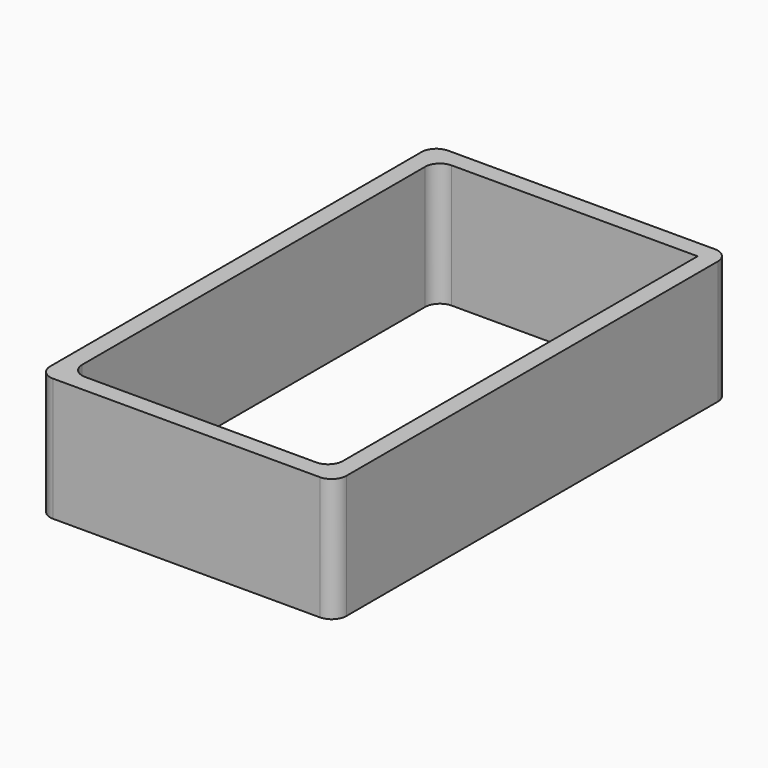
from build123d import *

# Parameters (mm, degrees)
F1_DEPTH = 25


with BuildPart() as f1:
    # F0 (on Top) → F1 (new body)
    with BuildSketch(Plane.XY):
        with BuildLine():
            Line((56.4, 26.051076), (56.4, 120.051076))
            ThreePointArc((56.4, 120.051076), (55.52132, 122.172396), (53.4, 123.051076))
            Line((53.4, 123.051076), (-0.6, 123.051076))
            ThreePointArc((-0.6, 123.051076), (-2.72132, 122.172396), (-3.6, 120.051076))
            Line((-3.6, 120.051076), (-3.6, 73.051076))
            Line((-3.6, 73.051076), (-3.6, 26.051076))
            ThreePointArc((-3.6, 26.051076), (-2.72132, 23.929755), (-0.6, 23.051076))
            Line((-0.6, 23.051076), (53.4, 23.051076))
            ThreePointArc((53.4, 23.051076), (55.52132, 23.929755), (56.4, 26.051076))
        make_face()
        with BuildLine():
            Line((0, 29.651076), (0, 73.051076))
            Line((0, 73.051076), (0, 116.451076))
            ThreePointArc((0, 116.451076), (0.87868, 118.572396), (3, 119.451076))
            Line((3, 119.451076), (52.8, 119.451076))
            Line((52.8, 119.451076), (52.8, 73.051076))
            Line((52.8, 73.051076), (52.8, 29.651076))
            ThreePointArc((52.8, 29.651076), (51.92132, 27.529755), (49.8, 26.651076))
            Line((49.8, 26.651076), (3, 26.651076))
            ThreePointArc((3, 26.651076), (0.87868, 27.529755), (0, 29.651076))
        make_face(mode=Mode.SUBTRACT)
    extrude(amount=F1_DEPTH)


solid = f1.part
